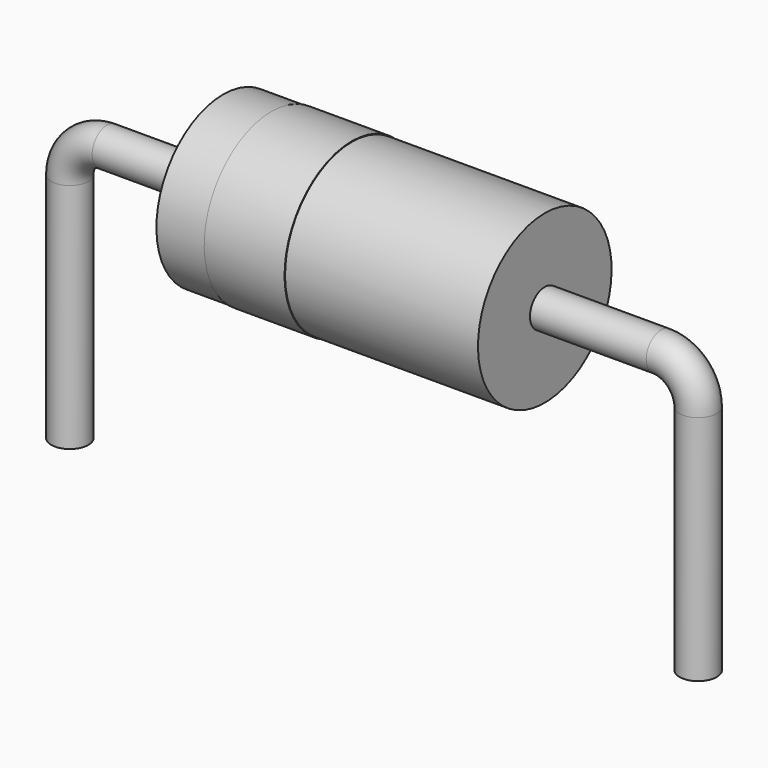
from build123d import *

# Parameters (mm, degrees)
SKETCH002_W = 5.2
SKETCH002_H = 1.35
SKETCH003_W = 1.3
SKETCH003_H = 0.02
SKETCH_R    = 0.3


with BuildPart() as revolution:
    # Sketch002 → Revolution (revolve)
    with BuildSketch(Plane.XZ):
        with Locations((5.08, 2.525)):
            Rectangle(SKETCH002_W, SKETCH002_H)
    revolve(axis=Axis((2.48, 0, 1.85), (1, 0, 0)))


with BuildPart() as revolution001:
    # Sketch003 → Revolution001 (revolve)
    with BuildSketch(Plane.XZ):
        with Locations((3.91, 3.2)):
            Rectangle(SKETCH003_W, SKETCH003_H)
    revolve(axis=Axis((0, 0, 1.85), (1, 0, 0)))


with BuildPart() as sweep_body:
    # Sweep: sweep along a path in Sketch001
    with BuildLine(Plane.XZ) as sweep_path:
        Line((0, -2.5), (0, 1.25))
        ThreePointArc((0, 1.25), (0.175736, 1.674264), (0.6, 1.85))
        Line((0.6, 1.85), (9.56, 1.85))
        ThreePointArc((9.56, 1.85), (9.984264, 1.674264), (10.16, 1.25))
        Line((10.16, 1.25), (10.16, -2.5))
    # Sketch → Sweep (sweep)
    with BuildSketch(Plane.XY.offset(-2)):
        Circle(SKETCH_R)
    sweep(path=sweep_path.line)


solid = Compound([revolution.part, revolution001.part, sweep_body.part])
